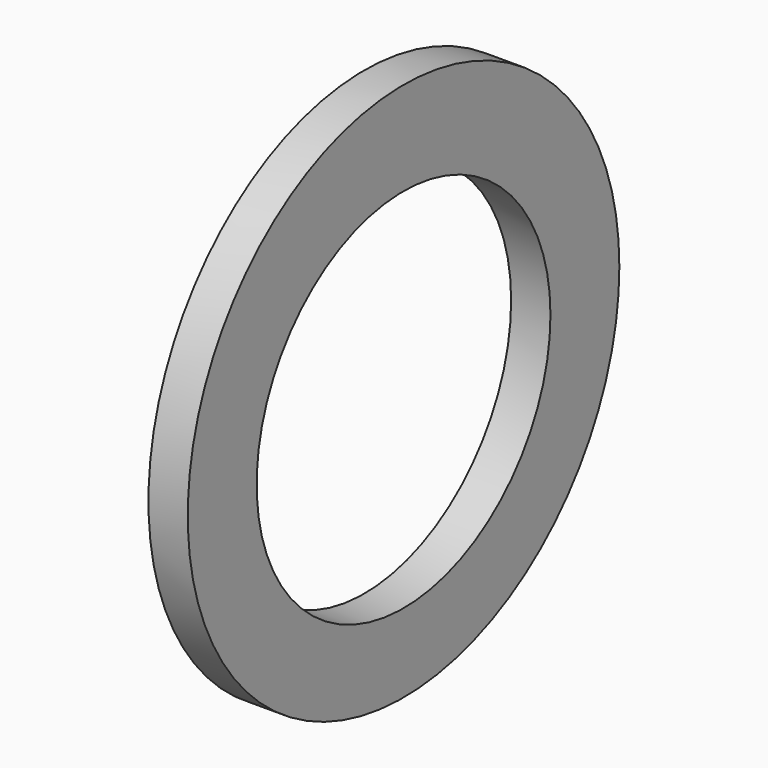
from build123d import *

# Parameters (mm, degrees)
F0_R     = 87.127575
F0_R_2   = 59.309392
F1_DEPTH = 12.7


with BuildPart() as f1:
    # F0 (on Right) → F1 (new body)
    with BuildSketch(Plane.YZ):
        with Locations((0, 2.418183)):
            Circle(F0_R)
        Circle(F0_R_2, mode=Mode.SUBTRACT)
    extrude(amount=F1_DEPTH)


solid = f1.part
